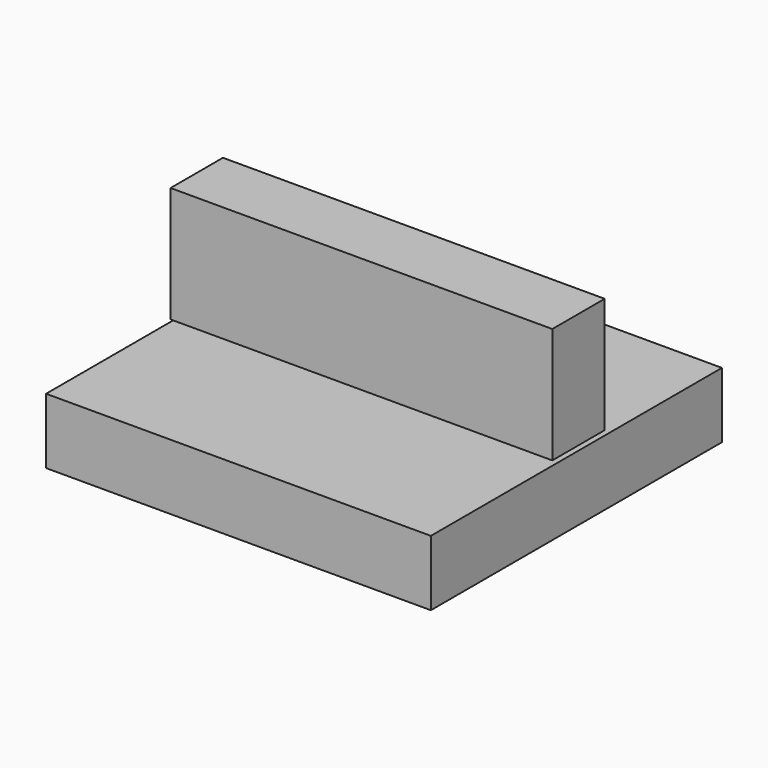
from build123d import *

# Parameters (mm, degrees)
F0_W     = 149.260514
F0_H     = 141.135097
F1_DEPTH = 25.4
F2_W     = 148.089394
F2_H     = 44.877269
F3_DEPTH = 12.7


with BuildPart() as f1:
    # F0 (on Top) → F1 (new body)
    with BuildSketch(Plane.XY):
        with Locations((-0.104774, -1.624555)):
            Rectangle(F0_W, F0_H)
    extrude(amount=F1_DEPTH)


with BuildPart() as f3:
    # F2 (on Front) → F3 (new body, symmetric)
    with BuildSketch(Plane.XZ):
        with Locations((-7e-06, 49.259338)):
            Rectangle(F2_W, F2_H)
    extrude(amount=F3_DEPTH, both=True)


solid = Compound([f1.part, f3.part])
